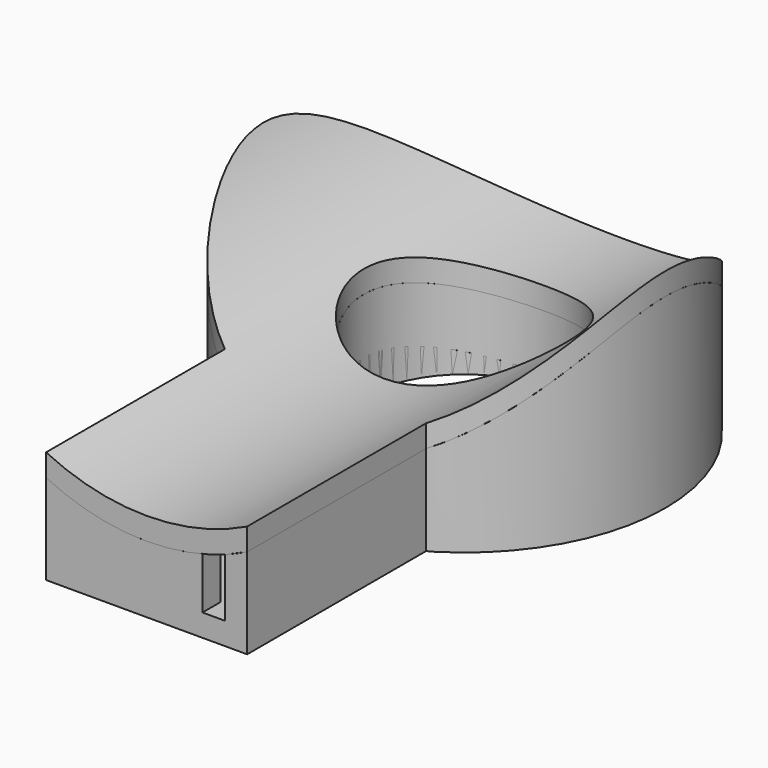
from build123d import *

# Parameters (mm, degrees)
SKETCH_R             = 18
PAD_DEPTH            = 30
SKETCH001_R          = 16
POCKET_DEPTH         = 40
POCKET001_DEPTH      = 18.001
POCKET001_DEPTH_BACK = -18.001
SKETCH014_W          = 14
SKETCH014_H          = 7.569522
POCKET010_DEPTH      = 8
SKETCH005_R          = 11
PAD002_DEPTH         = 30
POCKET003_DEPTH      = 11.001
POCKET003_DEPTH_BACK = -11.001
SKETCH007_R          = 9
POCKET004_DEPTH      = 9.202156
SKETCH003_R          = 16
PAD001_DEPTH         = 30
POCKET002_DEPTH      = 16.001
POCKET002_DEPTH_BACK = -16.001
SKETCH008_R          = 9
POCKET005_DEPTH      = 8.684994
SKETCH009_W          = 18
SKETCH009_H          = 20
PAD003_DEPTH         = 9
SKETCH010_W          = 14
SKETCH010_H          = 17
POCKET006_DEPTH      = 7
POCKET007_DEPTH      = 21
SKETCH012_W          = 14
SKETCH012_H          = 7.424547
POCKET008_DEPTH      = 25
SKETCH013_R          = 18
POCKET009_DEPTH      = 7
SKETCH021_W          = 2
SKETCH021_H          = 8
POCKET015_DEPTH      = 5
PAD004_DEPTH         = 36
POCKET011_DEPTH      = 36
SKETCH017_R          = 9
POCKET012_DEPTH      = 24.001
POCKET013_DEPTH      = 25
SKETCH019_W          = 20
SKETCH019_H          = 5
POCKET014_DEPTH      = 15
PAD005_DEPTH         = 1


with BuildPart() as base_cylinder_external:
    # Sketch → Pad (new body)
    with BuildSketch(Plane.XY):
        Circle(SKETCH_R)
    extrude(amount=PAD_DEPTH)

    # Sketch001 → Pocket (cut)
    with BuildSketch(Plane.XY):
        Circle(SKETCH001_R)
    extrude(amount=POCKET_DEPTH, mode=Mode.SUBTRACT)

    # Sketch002 → Pocket001 (cut, two sides)
    with BuildSketch(Plane.XZ) as pocket001_sk:
        with BuildLine():
            Line((-20, 22), (-20, 32))
            Line((-20, 32), (20, 32))
            Line((20, 32), (20, 22))
            ThreePointArc((-20, 22), (0, 6), (20, 22))
        make_face()
    extrude(amount=-POCKET001_DEPTH, mode=Mode.SUBTRACT)
    extrude(pocket001_sk.sketch, amount=-POCKET001_DEPTH_BACK, mode=Mode.SUBTRACT)

    # Sketch014 → Pocket010 (cut)
    with BuildSketch(Plane.XZ.offset(22)):
        with Locations((0, 5.784761)):
            Rectangle(SKETCH014_W, SKETCH014_H)
    extrude(amount=-POCKET010_DEPTH, mode=Mode.SUBTRACT)


with BuildPart() as base_cylinder_internal:
    # Sketch005 → Pad002 (new body)
    with BuildSketch(Plane.XY):
        Circle(SKETCH005_R)
    extrude(amount=PAD002_DEPTH)

    # Sketch006 → Pocket003 (cut, two sides)
    with BuildSketch(Plane.XZ) as pocket003_sk:
        with BuildLine():
            Line((-20, 22), (-20, 32))
            Line((-20, 32), (20, 32))
            Line((20, 32), (20, 22))
            ThreePointArc((-20, 22), (0, 6), (20, 22))
        make_face()
    extrude(amount=-POCKET003_DEPTH, mode=Mode.SUBTRACT)
    extrude(pocket003_sk.sketch, amount=-POCKET003_DEPTH_BACK, mode=Mode.SUBTRACT)

    # Sketch007 → Pocket004 (cut, through all)
    with BuildSketch(Plane.XY):
        Circle(SKETCH007_R)
    extrude(amount=POCKET004_DEPTH, mode=Mode.SUBTRACT)


with BuildPart() as base_cylinder_intermediate:
    # Sketch003 → Pad001 (new body)
    with BuildSketch(Plane.XY):
        Circle(SKETCH003_R)
    extrude(amount=PAD001_DEPTH)

    # Sketch004 → Pocket002 (cut, two sides)
    with BuildSketch(Plane.XZ) as pocket002_sk:
        with BuildLine():
            Line((-20, 17), (-20, 32))
            Line((-20, 32), (20, 32))
            Line((20, 32), (20, 17))
            ThreePointArc((-20, 17), (0, 1), (20, 17))
        make_face()
    extrude(amount=-POCKET002_DEPTH, mode=Mode.SUBTRACT)
    extrude(pocket002_sk.sketch, amount=-POCKET002_DEPTH_BACK, mode=Mode.SUBTRACT)

    # Sketch008 → Pocket005 (cut, through all)
    with BuildSketch(Plane.XY):
        Circle(SKETCH008_R)
    extrude(amount=POCKET005_DEPTH, mode=Mode.SUBTRACT)


with BuildPart() as base_box:
    # Sketch009 → Pad003 (new body)
    with BuildSketch(Plane.XY):
        with Locations((0, -25.588457)):
            Rectangle(SKETCH009_W, SKETCH009_H)
    extrude(amount=PAD003_DEPTH)

    # Sketch010 → Pocket006 (cut)
    with BuildSketch(Plane.XY.offset(2)):
        with Locations((0, -25.083124)):
            Rectangle(SKETCH010_W, SKETCH010_H)
    extrude(amount=POCKET006_DEPTH, mode=Mode.SUBTRACT)

    # Sketch011 → Pocket007 (cut)
    with BuildSketch(Plane.XZ.offset(15)):
        with BuildLine():
            Line((-20, 22), (-20, 32))
            Line((-20, 32), (20, 32))
            Line((20, 32), (20, 22))
            ThreePointArc((-20, 22), (0, 6), (20, 22))
        make_face()
    extrude(amount=POCKET007_DEPTH, mode=Mode.SUBTRACT)

    # Sketch012 → Pocket008 (cut)
    with BuildSketch(Plane.XZ.offset(33)):
        with Locations((0, 5.712274)):
            Rectangle(SKETCH012_W, SKETCH012_H)
    extrude(amount=-POCKET008_DEPTH, mode=Mode.SUBTRACT)

    # Sketch013 → Pocket009 (cut)
    with BuildSketch(Plane.XY.offset(9)):
        Circle(SKETCH013_R)
    extrude(amount=-POCKET009_DEPTH, mode=Mode.SUBTRACT)

    # Sketch021 → Pocket015 (cut)
    with BuildSketch(Plane.XZ.offset(37)):
        with Locations((6, 6)):
            Rectangle(SKETCH021_W, SKETCH021_H)
    extrude(amount=-POCKET015_DEPTH, mode=Mode.SUBTRACT)


with BuildPart() as top:
    # Sketch015 → Pad004 (new body, symmetric)
    with BuildSketch(Plane.XZ):
        with BuildLine():
            Line((-20, 22), (-20, 32))
            Line((-20, 32), (20, 32))
            Line((20, 32), (20, 22))
            ThreePointArc((-20, 22), (0, 6), (20, 22))
        make_face()
    extrude(amount=PAD004_DEPTH, both=True)

    # Sketch016 → Pocket011 (cut, symmetric)
    with BuildSketch(Plane.XZ):
        with BuildLine():
            Line((-20, 24), (-20, 34))
            Line((-20, 34), (20, 34))
            Line((20, 34), (20, 24))
            ThreePointArc((-20, 24), (0, 8), (20, 24))
        make_face()
    extrude(amount=POCKET011_DEPTH, both=True, mode=Mode.SUBTRACT)

    # Sketch017 → Pocket012 (cut, through all)
    with BuildSketch(Plane.XY):
        Circle(SKETCH017_R)
    extrude(amount=POCKET012_DEPTH, mode=Mode.SUBTRACT)

    # Sketch018 → Pocket013 (cut)
    with BuildSketch(Plane.XY):
        with BuildLine():
            Line((9, -38.955163), (9, -15.588457))
            ThreePointArc((9, -15.588457), (0, 18), (-9, -15.588457))
            Line((-9, -38.955163), (-9, -15.588457))
            Line((-9, -38.955163), (-27, -38.955163))
            Line((-27, -38.955163), (-27, 41.044837))
            Line((-27, 41.044837), (27, 41.044837))
            Line((27, 41.044837), (27, -38.955163))
            Line((27, -38.955163), (9, -38.955163))
        make_face()
    extrude(amount=POCKET013_DEPTH, mode=Mode.SUBTRACT)

    # Sketch019 → Pocket014 (cut)
    with BuildSketch(Plane.XY):
        with Locations((0, -38.1)):
            Rectangle(SKETCH019_W, SKETCH019_H)
    extrude(amount=POCKET014_DEPTH, mode=Mode.SUBTRACT)

    # Sketch020 → Pad005 (join)
    with BuildSketch(Plane.XY.offset(7)):
        Polygon((-6.8, -20.975668), (-6.8, -33.5), (6.8, -33.5), (6.8, -20.975668), (5.8, -20.975668), (5.8, -32.5), (-5.8, -32.5), (-5.8, -20.975668), align=None)
    extrude(amount=-PAD005_DEPTH)


solid = Compound([base_cylinder_external.part, base_cylinder_internal.part, base_cylinder_intermediate.part, base_box.part, top.part])
